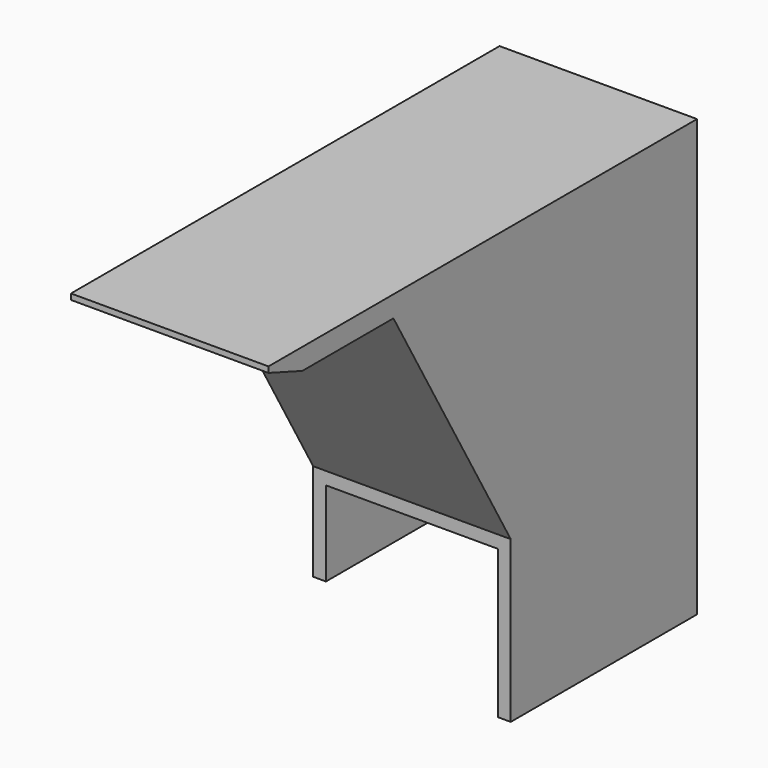
from build123d import *

# Parameters (mm, degrees)
PAD_DEPTH     = 55
PAD001_DEPTH  = 46.65
SKETCH003_W   = 5
SKETCH003_H   = 50
PAD002_DEPTH  = 46.65
PAD003_DEPTH  = 46.65
CHAMFER_ANGLE = 20
CHAMFER_SIZE  = 10


with BuildPart() as part:
    # Sketch → Pad (new body)
    with BuildSketch(Plane.XZ):
        Polygon((-23.325, 3), (-23.325, -20), (-20.325, -20), (-20.325, 0), (20.325, 0), (20.325, -35), (23.325, -35), (23.325, 3), align=None)
    extrude(amount=PAD_DEPTH)

    # Sketch001 (on Face1 of Pad) → Pad001 (join)
    with BuildSketch(Plane(origin=(-23.325, 0, 0), x_dir=(0, 0, -1), z_dir=(-1, 0, 0))):
        Polygon((-3, 39), (-3, 55), (-68, 92.527767), (-68, 76.527767), align=None)
    extrude(amount=-PAD001_DEPTH)

    # Sketch003 (on Face12 of Pad001) → Pad002 (join)
    with BuildSketch(Plane(origin=(-23.325, 0, 0), x_dir=(0, 0, -1), z_dir=(-1, 0, 0))):
        with Locations((-65.5, 101.527767)):
            Rectangle(SKETCH003_W, SKETCH003_H)
    extrude(amount=-PAD002_DEPTH)

    # Sketch004 (on DatumPlane) → Pad003 (join)
    with BuildSketch(Plane(origin=(-23.325, 0, 0), x_dir=(0, 0, -1), z_dir=(-1, 0, 0))):
        Polygon((-68, 0), (-3, 0), (-3, 39), (-68, 76.527767), align=None)
    extrude(amount=-PAD003_DEPTH)

    # Chamfer
    chamfer_edges = [part.edges().sort_by_distance(p)[0] for p in [
        (0, -126.527767, 63),
    ]]
    chamfer_side = part.faces().sort_by_distance((0, -108.084392, 63))[0]
    chamfer(chamfer_edges, length=CHAMFER_SIZE, angle=CHAMFER_ANGLE, reference=chamfer_side)


solid = part.part
